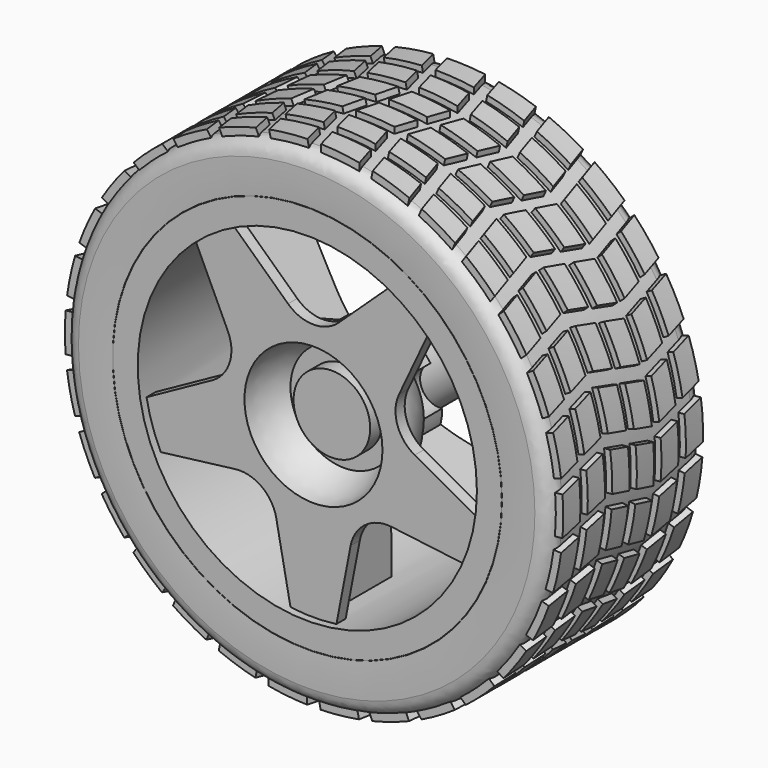
from build123d import *

# Parameters (mm, degrees)
POCKET_DEPTH          = 151.554947
SKETCH002_R           = 2.5
POCKET001_DEPTH       = 3
PAD_DEPTH             = 0.6
POLARPATTERN_COUNT    = 5
POCKET002_DEPTH       = 17
SKETCH006_W           = 1.45
SKETCH006_H           = 14.4
PAD001_DEPTH          = 1
POLARPATTERN001_COUNT = 8
FILLET_R              = 2
PAD002_DEPTH          = 2
POLARPATTERN002_COUNT = 30


with BuildPart() as wheel:
    # Sketch → Revolution (revolve)
    with BuildSketch(Plane.XY):
        with BuildLine():
            Line((9, -12.5), (22.5, -12.5))
            Line((22.5, -12.5), (22.5, -11))
            Line((22.5, -11), (10.25, -11))
            ThreePointArc((10.25, -11), (9.701453, -7.550459), (8, -4.5))
            Line((8, -4.5), (8, -1.5))
            Line((8, -1.5), (5, -1.5))
            Line((5, -1.5), (5, 15.5))
            Line((5, 15.5), (0, 15.5))
            Line((0, 15.5), (0, -9.5))
            Line((0, -9.5), (5, -9.5))
            Line((5, -9.5), (5, -7.5))
            Line((5, -7.5), (7, -7.5))
            ThreePointArc((9, -12.5), (8.342905, -9.862838), (7, -7.5))
        make_face()
    revolve(axis=Axis((0, 0, 0), (0, 1, 0)))

    # Sketch001 → Pocket (cut, through all)
    with BuildSketch(Plane.XZ):
        with BuildLine():
            Line((-3.311526, 12.80745), (-10.75, 19.765816))
            ThreePointArc((10.75, 19.765816), (0, 22.5), (-10.75, 19.765816))
            Line((3.311526, 12.80745), (10.75, 19.765816))
            ThreePointArc((-3.311526, 12.80745), (0, 11.5), (3.311526, 12.80745))
        make_face()
    pocket = extrude(amount=POCKET_DEPTH, mode=Mode.SUBTRACT)

    # Sketch002 (on Face14 of Pocket) → Pocket001 (cut)
    with BuildSketch(Plane(origin=(0, -1.5, 0), x_dir=(-1, 0, 0), z_dir=(0, 1, 0))):
        with Locations((0, 8)):
            Circle(SKETCH002_R)
    pocket001 = extrude(amount=-POCKET001_DEPTH, mode=Mode.SUBTRACT)

    # Sketch003 (on DatumPlane) → Pad (join, symmetric)
    with BuildSketch(Plane(origin=(0, 0, 0), x_dir=(0, 1, 0), z_dir=(0.809017, 0, -0.587785))):
        with BuildLine():
            Line((-11, 22.5), (-0.5, 22.5))
            Line((-0.5, 22.5), (-0.5, 17.5))
            Line((-0.5, 17.5), (-1.324558, 11.315815))
            ThreePointArc((-1.324558, 11.315815), (-1.456091, 9.997086), (-1.5, 8.67254))
            Line((-1.5, 8.67254), (-1.5, 8))
            Line((-1.5, 8), (-5.5, 8))
            Line((-5.5, 8), (-11, 9.5))
            Line((-11, 9.5), (-11, 22.5))
        make_face()
    pad = extrude(amount=PAD_DEPTH, both=True)

    # PolarPattern: Pad, Pocket001, Pocket ×5 about axis
    polarpattern_axis = Axis((0, 0, 0), (0, 1, 0))
    for i in range(1, POLARPATTERN_COUNT):
        add(pad.rotate(polarpattern_axis, i * 360 / POLARPATTERN_COUNT))
        add(pocket001.rotate(polarpattern_axis, i * 360 / POLARPATTERN_COUNT), mode=Mode.SUBTRACT)
        add(pocket.rotate(polarpattern_axis, i * 360 / POLARPATTERN_COUNT), mode=Mode.SUBTRACT)

    # Sketch004 → Revolution001 (revolve)
    with BuildSketch(Plane.XY):
        Polygon((22.120341, 11.5), (22.120341, -13.5), (25.370341, -13.5), (25.370341, -12.1), (23.670341, -12.1), (23.670341, -8.3), (25.120341, -8.3), (25.120341, -7.1), (23.670341, -5.65), (23.670341, -2.425), (25.120341, -0.975), (25.120341, 0.225), (23.670341, 0.225), (23.670341, 3.45), (25.120341, 4.9), (25.120341, 6.1), (23.670341, 6.1), (23.670341, 9.9), (25.370341, 9.9), (25.370341, 11.5), align=None)
    revolve(axis=Axis((0, 0, 0), (0, 1, 0)))

    # Sketch005 (on Face108 of Revolution001) → Pocket002 (cut)
    with BuildSketch(Plane(origin=(0, 15.5, 0), x_dir=(-1, 0, 0), z_dir=(0, 1, 0))):
        with BuildLine():
            ThreePointArc((-1.989975, 1.75), (-2.65, 0), (-1.989975, -1.75))
            Line((-1.989975, -1.75), (1.989975, -1.75))
            ThreePointArc((1.989975, -1.75), (2.65, 0), (1.989975, 1.75))
            Line((1.989975, 1.75), (-1.989975, 1.75))
        make_face()
    extrude(amount=-POCKET002_DEPTH, mode=Mode.SUBTRACT)

    # Sketch006 → Pad001 (join, symmetric)
    with BuildSketch(Plane.XY):
        with Locations((-24.395341, -1.1)):
            Rectangle(SKETCH006_W, SKETCH006_H)
    pad001 = extrude(amount=PAD001_DEPTH, both=True)

    # PolarPattern001: Pad001 ×8 about axis
    polarpattern001_axis = Axis((0, 0, 0), (0, 1, 0))
    for i in range(1, POLARPATTERN001_COUNT):
        add(pad001.rotate(polarpattern001_axis, i * 360 / POLARPATTERN001_COUNT))


with BuildPart() as tire:
    # Sketch007 → Revolution002 (revolve)
    with BuildSketch(Plane.XY):
        with BuildLine():
            Line((26.4, 8.9), (23.7, 8.9))
            Line((23.7, 8.9), (23.7, 9.9))
            Line((23.7, 9.9), (25.4, 9.9))
            Line((25.4, 9.9), (25.4, 11.5))
            add(Edge.make_bspline(
                [(25.4, 11.5), (28.15, 11.75), (31.7, 11.5)],
                knots=[0, 0, 0, 1, 1, 1], degree=2))
            Line((31.7, 11.5), (31.7, -13.5))
            add(Edge.make_bspline(
                [(25.4, -13.5), (28.15, -13.75), (31.7, -13.5)],
                knots=[0, 0, 0, 1, 1, 1], degree=2))
            Line((25.4, -13.5), (25.4, -12.1))
            Line((25.4, -12.1), (23.7, -12.1))
            Line((23.7, -12.1), (23.7, -11.1))
            Line((23.7, -11.1), (26.4, -11.1))
            Line((26.4, -11.1), (26.4, -12.5))
            Line((26.4, -12.5), (30.7, -12.5))
            Line((30.7, -12.5), (30.7, 10.3))
            Line((30.7, 10.3), (26.4, 10.3))
            Line((26.4, 10.3), (26.4, 8.9))
        make_face()
    revolve(axis=Axis((0, 0, 0), (0, 1, 0)))

    # Fillet
    fillet_edges = [tire.edges().sort_by_distance(p)[0] for p in [
        (-31.7, -13.5, 0),
        (-31.7, 11.5, 0),
    ]]
    fillet(fillet_edges, radius=FILLET_R)

    # Sketch008 → Pad002 (new body)
    with BuildSketch(Plane.XY.offset(30.8)):
        Polygon((-0.916783, 10.4), (-0.161785, 7.6), (4.838215, 7.6), (4.083217, 10.4), align=None)
        Polygon((0.161785, 6.4), (0.916783, 3.6), (5.916783, 3.6), (5.161785, 6.4), align=None)
        Polygon((5.916783, 2.4), (0.916783, 2.4), (0.161785, -0.4), (5.161785, -0.4), align=None)
        Polygon((-0.161785, -1.6), (-0.916783, -4.4), (4.083217, -4.4), (4.838215, -1.6), align=None)
        Polygon((-0.916783, -5.6), (4.083217, -5.6), (4.838215, -8.4), (-0.161785, -8.4), align=None)
        Polygon((0.161785, -9.6), (0.916783, -12.4), (5.916783, -12.4), (5.161785, -9.6), align=None)
    pad002 = extrude(amount=PAD002_DEPTH)

    # PolarPattern002: Pad002 ×30 about axis
    polarpattern002_axis = Axis((0, 0, 0), (0, 1, 0))
    for i in range(1, POLARPATTERN002_COUNT):
        add(pad002.rotate(polarpattern002_axis, i * 360 / POLARPATTERN002_COUNT))

    # Sketch009 → Groove (revolve, cut)
    with BuildSketch(Plane.YZ):
        Polygon((-14.5, 35.5), (12.5, 35.5), (12.5, 31.5), (11.5, 31.5), (11.5, 32.5), (-13.5, 32.5), (-13.5, 31.5), (-14.5, 31.5), align=None)
    revolve(axis=Axis((0, 0, 0), (0, 1, 0)), mode=Mode.SUBTRACT)


solid = Compound([wheel.part, tire.part])
